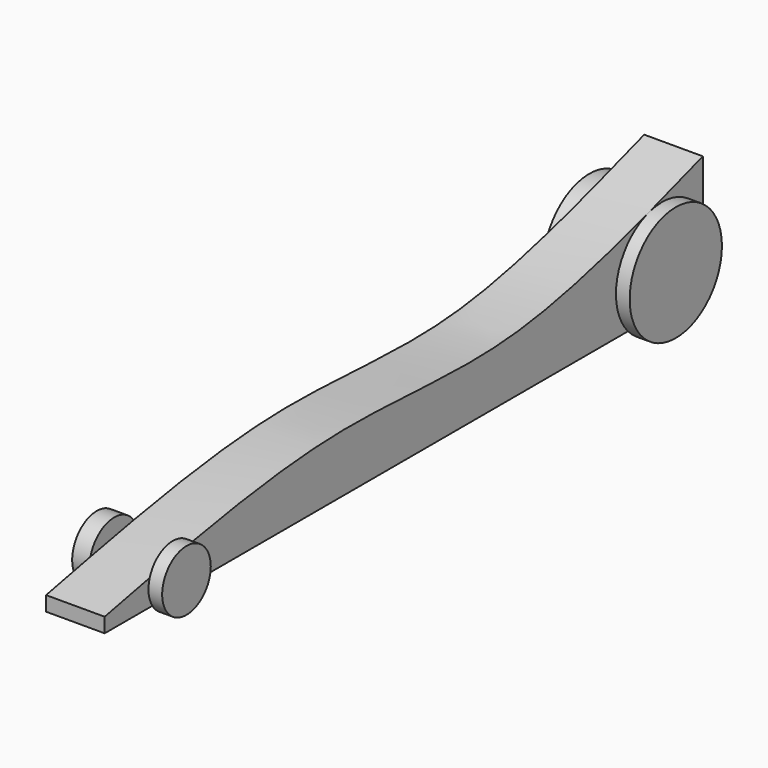
from build123d import *

# Parameters (mm, degrees)
F1_DEPTH = 11.938
F2_R     = 6.1875403552
F2_R_2   = 11.7467600062
F3_DEPTH = 2.794
F5_R     = 11.8120539401
F5_R_2   = 6.2510630266
F6_DEPTH = 3.556


with BuildPart() as f1:
    # F0 (on Right) → F1 (new body)
    with BuildSketch(Plane.YZ):
        with BuildLine():
            add(Edge.make_bspline(
                [(-76.4996260405, 2.9805048835), (-56.3796152142, 7.097398258), (-18.7224302831, 14.8026930756), (26.7459462387, 7.4220428779), (59.1316162883, 18.1245890634), (75.8372917771, 23.6453413963)],
                knots=[0, 0, 0, 0, 0.3571080314, 0.6683735558, 1, 1, 1, 1], degree=3))
            Line((-76.4996260405, 2.9805048835), (-76.4996260405, 0))
            Line((-76.4996260405, 0), (75.8372917771, 0))
            Line((75.8372917771, 0), (75.8372917771, 23.6453413963))
        make_face()
    extrude(amount=-F1_DEPTH)

    # F2 (on Right) → F3 (join)
    with BuildSketch(Plane.YZ):
        with Locations((-59.1590069234, 3.350545885)):
            Circle(F2_R)
        with Locations((65.4666498303, 7.9067526385)):
            Circle(F2_R_2)
    extrude(amount=F3_DEPTH)

    # F5 (on offset) → F6 (join)
    with BuildSketch(Plane.YZ.offset(-11.938)):
        with Locations((66.2925317883, 7.5488621369)):
            Circle(F5_R)
        with Locations((-59.1539330781, 3.6185581703)):
            Circle(F5_R_2)
    extrude(amount=-F6_DEPTH)


solid = f1.part
